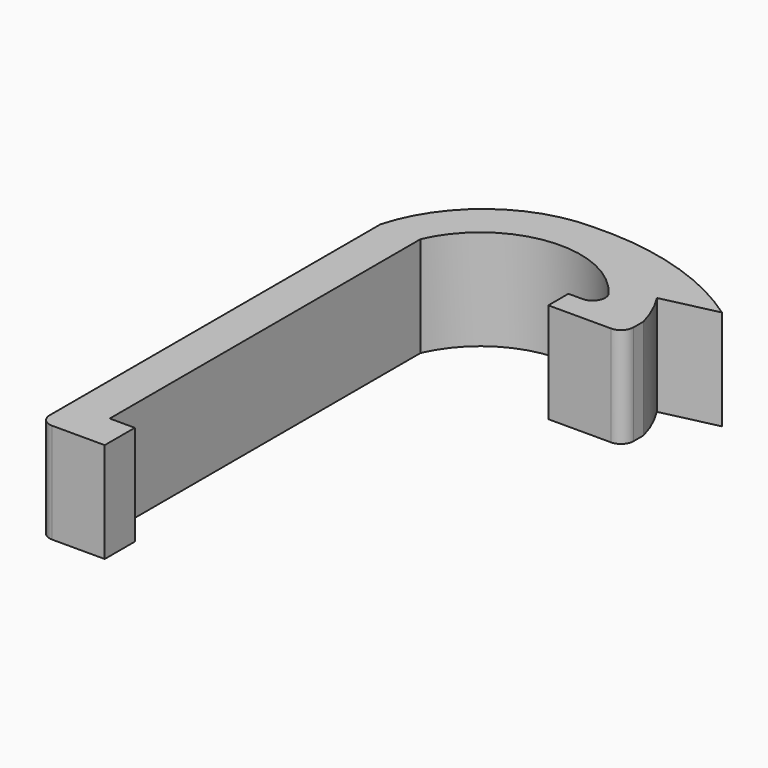
from build123d import *

# Parameters (mm, degrees)
F0_W     = 2
F0_H     = 3
F1_DEPTH = 8


with BuildPart() as f1:
    # F0 (on Top) → F1 (new body)
    with BuildSketch(Plane.XY):
        with BuildLine():
            ThreePointArc((24.046684, 38.003651), (17.604921, 41.125799), (10.5, 42))
            ThreePointArc((10.5, 42), (15.717908, 40.668619), (19.660035, 37))
            Line((19.660035, 37), (24.046684, 38.003651))
        make_face()
        with BuildLine():
            ThreePointArc((10.5, 42), (3.899811, 39.772124), (0, 34))
            Line((0, 34), (3.2, 34))
            ThreePointArc((3.2, 34), (9.6069, 38.747985), (16.933573, 35.599717))
            ThreePointArc((16.933573, 35.599717), (17.027709, 34.552628), (16.133361, 34))
            Line((16.133361, 34), (15, 34))
            Line((15, 34), (15, 32))
            Line((15, 32), (20, 32))
            ThreePointArc((20, 32), (20.707107, 32.292893), (21, 33))
            Line((21, 33), (21, 34))
            ThreePointArc((21, 34), (20.443805, 35.550823), (19.660035, 37))
            ThreePointArc((19.660035, 37), (15.717908, 40.668619), (10.5, 42))
        make_face()
        with Locations((4.2, 1.5)):
            Rectangle(F0_W, F0_H)
        with BuildLine():
            ThreePointArc((0, 1), (0.292893, 0.292893), (1, 0))
            Line((1, 0), (3.2, 0))
            Line((3.2, 0), (3.2, 3))
            Line((3.2, 3), (3.2, 34))
            Line((3.2, 34), (0, 34))
            Line((0, 34), (0, 1))
        make_face()
        with BuildLine():
            ThreePointArc((10.5, 42), (3.899811, 39.772124), (0, 34))
            Line((0, 34), (3.2, 34))
            ThreePointArc((3.2, 34), (9.6069, 38.747985), (16.933573, 35.599717))
            ThreePointArc((16.933573, 35.599717), (17.027709, 34.552628), (16.133361, 34))
            Line((16.133361, 34), (15, 34))
            Line((15, 34), (15, 32))
            Line((15, 32), (20, 32))
            ThreePointArc((20, 32), (20.707107, 32.292893), (21, 33))
            Line((21, 33), (21, 34))
            ThreePointArc((21, 34), (20.443805, 35.550823), (19.660035, 37))
            ThreePointArc((19.660035, 37), (15.717908, 40.668619), (10.5, 42))
        make_face()
    extrude(amount=F1_DEPTH)


solid = f1.part
